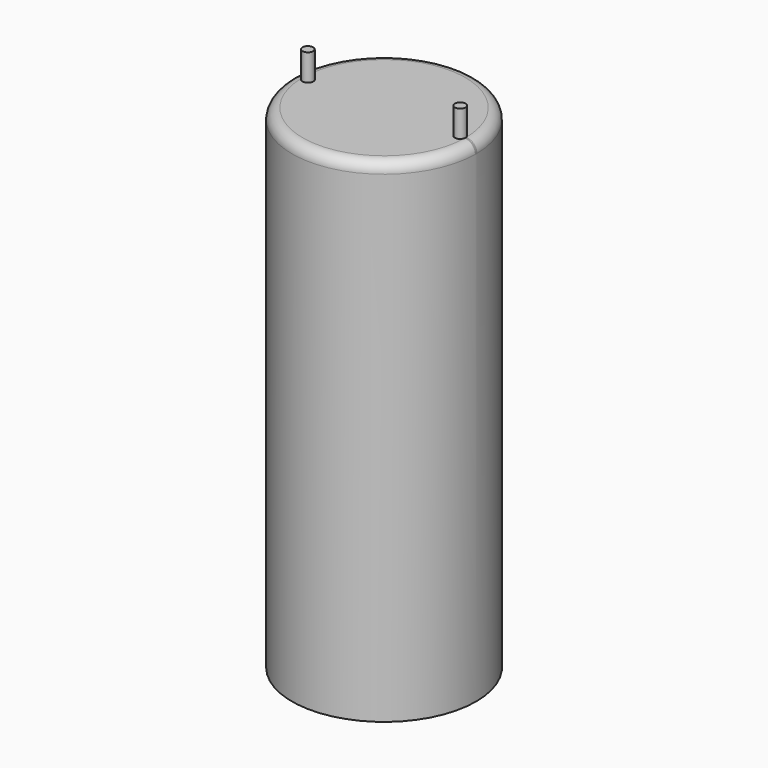
from build123d import *

# Parameters (mm, degrees)
F0_R     = 109.45622
F1_DEPTH = 292.89375
F2_R     = 6.35
F3_DEPTH = 31.75
F4_R     = 12.7


with BuildPart() as f1:
    # F0 (on Top) → F1 (new body, symmetric)
    with BuildSketch(Plane.XY):
        Circle(F0_R)
    extrude(amount=F1_DEPTH, both=True)

    # F2 (on face) → F3 (join)
    with BuildSketch(Plane.XY.offset(292.89375)):
        with Locations((90.4875, 0)):
            Circle(F2_R)
        with Locations((-90.4875, 0)):
            Circle(F2_R)
    extrude(amount=F3_DEPTH)

    # F4
    f4_edges = [f1.edges().sort_by_distance(p)[0] for p in [
        (-109.45622, 0, 292.89375),
    ]]
    fillet(f4_edges, radius=F4_R)


solid = f1.part
